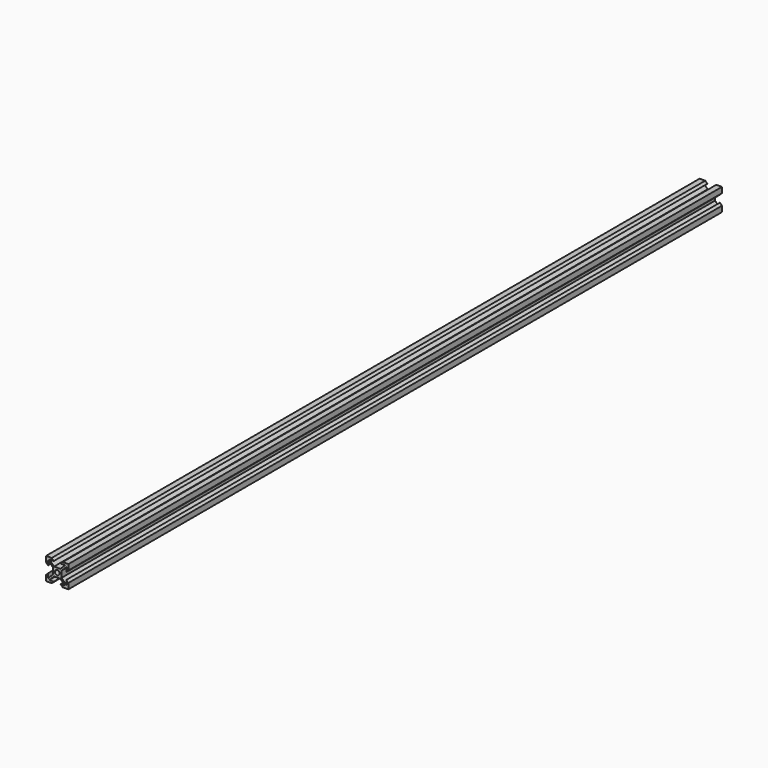
from build123d import *

# Parameters (mm, degrees)
SKETCH_R  = 2.1
PAD_DEPTH = 734


with BuildPart() as part:
    # Sketch → Pad (new body)
    with BuildSketch(Plane.XZ):
        Polygon((0, 0), (5.05, 0), (6.9, 1.85), (2.91066, 1.85), (7.16066, 6.1), (12.83934, 6.1), (17.08934, 1.85), (13.1, 1.85), (14.95, 0), (20, 0), (20, 5.05), (18.15, 6.9), (18.15, 2.91066), (13.9, 7.16066), (13.9, 12.83934), (18.15, 17.08934), (18.15, 13.1), (20, 14.95), (20, 20), (14.95, 20), (13.1, 18.15), (17.08934, 18.15), (12.83934, 13.9), (7.16066, 13.9), (2.91066, 18.15), (6.9, 18.15), (5.05, 20), (0, 20), (0, 14.95), (1.85, 13.1), (1.85, 17.08934), (6.1, 12.83934), (6.1, 7.16066), (1.85, 2.91066), (1.85, 6.9), (0, 5.05), align=None)
        with Locations((10, 10)):
            Circle(SKETCH_R, mode=Mode.SUBTRACT)
    extrude(amount=PAD_DEPTH)


solid = part.part
